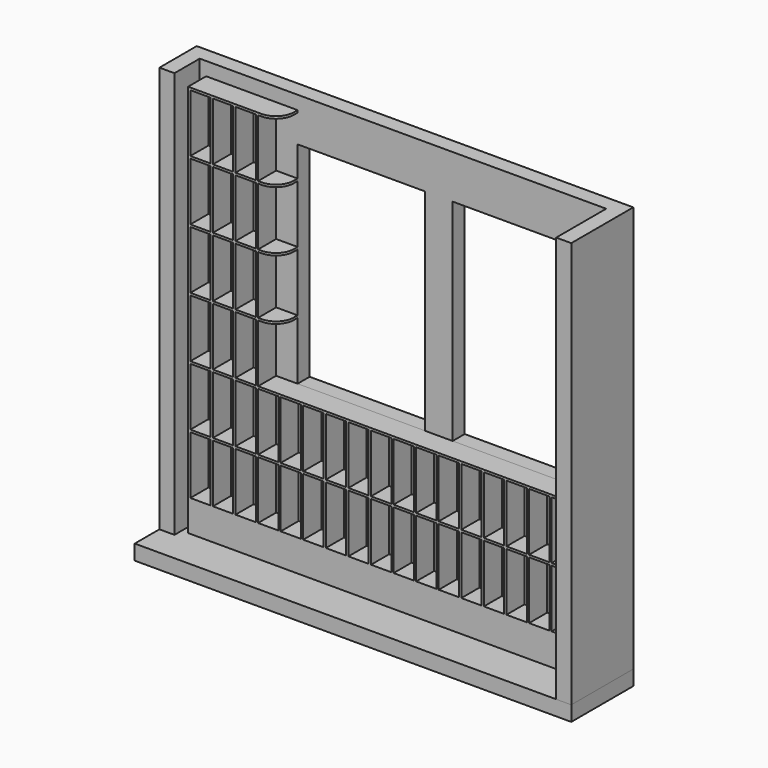
from build123d import *

# Parameters (mm, degrees)
F0_W      = 2700
F0_H      = 2700
F0_W_2    = 845
F0_H_2    = 1400
F1_DEPTH  = 100
F2_W      = 135
F2_H      = 385
F3_DEPTH  = 150
F4_R      = 120
F5_W      = 310
F5_H      = 2700
F6_DEPTH  = 100
F7_W      = 515
F7_H      = 2700
F8_DEPTH  = 100
F9_W      = 2535
F9_H      = 195
F10_DEPTH = 15
F11_W     = 2900
F11_H     = 515
F12_DEPTH = 100


with BuildPart() as f1:
    # F0 (on Front) → F1 (new body)
    with BuildSketch(Plane.XZ):
        Rectangle(F0_W, F0_H)
        with Locations((-277.5, 360)):
            Rectangle(F0_W_2, F0_H_2, mode=Mode.SUBTRACT)
        with Locations((752.5, 360)):
            Rectangle(F0_W_2, F0_H_2, mode=Mode.SUBTRACT)
    extrude(amount=-F1_DEPTH)

    # F5 (on face) → F6 (join)
    with BuildSketch(Plane(origin=(-1350, 0, 0), x_dir=(0, -1, 0), z_dir=(-1, 0, 0))):
        with Locations((55, 0)):
            Rectangle(F5_W, F5_H)
    extrude(amount=F6_DEPTH)

    # F7 (on face) → F8 (join)
    with BuildSketch(Plane.YZ.offset(1350)):
        with Locations((-157.5, 0)):
            Rectangle(F7_W, F7_H)
    extrude(amount=F8_DEPTH)


with BuildPart() as f3:
    # F2 (on Front) → F3 (new body)
    with BuildSketch(Plane.XZ):
        Polygon((-1307.5, 1260.553313), (-1307.5, -1350), (-1292.5, -1350), (-1292.5, -1155), (-1157.5, -1155), (-1157.5, -1350), (-1142.5, -1350), (-1142.5, -1155), (-1007.5, -1155), (-1007.5, -1350), (-992.5, -1350), (-992.5, -1155), (-857.5, -1155), (-857.5, -1350), (-842.5, -1350), (-842.5, -1155), (-707.5, -1155), (-707.5, -1350), (-692.5, -1350), (-692.5, -1155), (-557.5, -1155), (-557.5, -1350), (-542.5, -1350), (-542.5, -1155), (-407.5, -1155), (-407.5, -1350), (-392.5, -1350), (-392.5, -1155), (-257.5, -1155), (-257.5, -1350), (-242.5, -1350), (-242.5, -1155), (-107.5, -1155), (-107.5, -1350), (-92.5, -1350), (-92.5, -1155), (42.5, -1155), (42.5, -1350), (57.5, -1350), (57.5, -1155), (192.5, -1155), (192.5, -1350), (207.5, -1350), (207.5, -1155), (342.5, -1155), (342.5, -1350), (357.5, -1350), (357.5, -1155), (492.5, -1155), (492.5, -1350), (507.5, -1350), (507.5, -1155), (642.5, -1155), (642.5, -1350), (657.5, -1350), (657.5, -1155), (792.5, -1155), (792.5, -1350), (807.5, -1350), (807.5, -1155), (942.5, -1155), (942.5, -1350), (957.5, -1350), (957.5, -1155), (1092.5, -1155), (1092.5, -1350), (1107.5, -1350), (1107.5, -1155), (1242.5, -1155), (1242.5, -1350), (1257.5, -1350), (1257.5, -340), (1242.5, -340), (1107.5, -340), (1092.5, -340), (957.5, -340), (942.5, -340), (807.5, -340), (792.5, -340), (657.5, -340), (642.5, -340), (507.5, -340), (492.5, -340), (357.5, -340), (342.5, -340), (207.5, -340), (192.5, -340), (57.5, -340), (42.5, -340), (-92.5, -340), (-107.5, -340), (-242.5, -340), (-257.5, -340), (-392.5, -340), (-407.5, -340), (-542.5, -340), (-557.5, -340), (-692.5, -340), (-707.5, -340), (-842.5, -340), (-842.5, 45), (-700, 45), (-700, 60), (-842.5, 60), (-842.5, 445), (-700, 445), (-700, 460), (-842.5, 460), (-842.5, 845), (-700, 845), (-700, 860), (-842.5, 860), (-842.5, 1245), (-700, 1245), (-699.986338, 1259.999994), align=None)
        with Locations((-1225, -947.5)):
            Rectangle(F2_W, F2_H, mode=Mode.SUBTRACT)
        with Locations((-1075, -947.5)):
            Rectangle(F2_W, F2_H, mode=Mode.SUBTRACT)
        with Locations((-925, -947.5)):
            Rectangle(F2_W, F2_H, mode=Mode.SUBTRACT)
        with Locations((-775, -947.5)):
            Rectangle(F2_W, F2_H, mode=Mode.SUBTRACT)
        with Locations((-625, -947.5)):
            Rectangle(F2_W, F2_H, mode=Mode.SUBTRACT)
        with Locations((-475, -947.5)):
            Rectangle(F2_W, F2_H, mode=Mode.SUBTRACT)
        with Locations((-325, -947.5)):
            Rectangle(F2_W, F2_H, mode=Mode.SUBTRACT)
        with Locations((-175, -947.5)):
            Rectangle(F2_W, F2_H, mode=Mode.SUBTRACT)
        with Locations((-1225, -547.5)):
            Rectangle(F2_W, F2_H, mode=Mode.SUBTRACT)
        with Locations((-1075, -547.5)):
            Rectangle(F2_W, F2_H, mode=Mode.SUBTRACT)
        with Locations((-925, -547.5)):
            Rectangle(F2_W, F2_H, mode=Mode.SUBTRACT)
        with Locations((-775, -547.5)):
            Rectangle(F2_W, F2_H, mode=Mode.SUBTRACT)
        with Locations((-1225, -147.5)):
            Rectangle(F2_W, F2_H, mode=Mode.SUBTRACT)
        with Locations((-1075, -147.5)):
            Rectangle(F2_W, F2_H, mode=Mode.SUBTRACT)
        with Locations((-925, -147.5)):
            Rectangle(F2_W, F2_H, mode=Mode.SUBTRACT)
        with Locations((-625, -547.5)):
            Rectangle(F2_W, F2_H, mode=Mode.SUBTRACT)
        with Locations((-475, -547.5)):
            Rectangle(F2_W, F2_H, mode=Mode.SUBTRACT)
        with Locations((-325, -547.5)):
            Rectangle(F2_W, F2_H, mode=Mode.SUBTRACT)
        with Locations((-175, -547.5)):
            Rectangle(F2_W, F2_H, mode=Mode.SUBTRACT)
        with Locations((-25, -947.5)):
            Rectangle(F2_W, F2_H, mode=Mode.SUBTRACT)
        with Locations((125, -947.5)):
            Rectangle(F2_W, F2_H, mode=Mode.SUBTRACT)
        with Locations((275, -947.5)):
            Rectangle(F2_W, F2_H, mode=Mode.SUBTRACT)
        with Locations((425, -947.5)):
            Rectangle(F2_W, F2_H, mode=Mode.SUBTRACT)
        with Locations((575, -947.5)):
            Rectangle(F2_W, F2_H, mode=Mode.SUBTRACT)
        with Locations((725, -947.5)):
            Rectangle(F2_W, F2_H, mode=Mode.SUBTRACT)
        with Locations((875, -947.5)):
            Rectangle(F2_W, F2_H, mode=Mode.SUBTRACT)
        with Locations((1025, -947.5)):
            Rectangle(F2_W, F2_H, mode=Mode.SUBTRACT)
        with Locations((1175, -947.5)):
            Rectangle(F2_W, F2_H, mode=Mode.SUBTRACT)
        with Locations((-25, -547.5)):
            Rectangle(F2_W, F2_H, mode=Mode.SUBTRACT)
        with Locations((125, -547.5)):
            Rectangle(F2_W, F2_H, mode=Mode.SUBTRACT)
        with Locations((275, -547.5)):
            Rectangle(F2_W, F2_H, mode=Mode.SUBTRACT)
        with Locations((425, -547.5)):
            Rectangle(F2_W, F2_H, mode=Mode.SUBTRACT)
        with Locations((575, -547.5)):
            Rectangle(F2_W, F2_H, mode=Mode.SUBTRACT)
        with Locations((725, -547.5)):
            Rectangle(F2_W, F2_H, mode=Mode.SUBTRACT)
        with Locations((875, -547.5)):
            Rectangle(F2_W, F2_H, mode=Mode.SUBTRACT)
        with Locations((1025, -547.5)):
            Rectangle(F2_W, F2_H, mode=Mode.SUBTRACT)
        with Locations((1175, -547.5)):
            Rectangle(F2_W, F2_H, mode=Mode.SUBTRACT)
        with Locations((-1225, 252.5)):
            Rectangle(F2_W, F2_H, mode=Mode.SUBTRACT)
        with Locations((-1075, 252.5)):
            Rectangle(F2_W, F2_H, mode=Mode.SUBTRACT)
        with Locations((-925, 252.5)):
            Rectangle(F2_W, F2_H, mode=Mode.SUBTRACT)
        with Locations((-1225, 652.5)):
            Rectangle(F2_W, F2_H, mode=Mode.SUBTRACT)
        with Locations((-1075, 652.5)):
            Rectangle(F2_W, F2_H, mode=Mode.SUBTRACT)
        with Locations((-925, 652.5)):
            Rectangle(F2_W, F2_H, mode=Mode.SUBTRACT)
        with Locations((-1225, 1052.5)):
            Rectangle(F2_W, F2_H, mode=Mode.SUBTRACT)
        with Locations((-1075, 1052.5)):
            Rectangle(F2_W, F2_H, mode=Mode.SUBTRACT)
        with Locations((-925, 1052.5)):
            Rectangle(F2_W, F2_H, mode=Mode.SUBTRACT)
    extrude(amount=F3_DEPTH)

    # F4
    f4_edges = [f3.edges().sort_by_distance(p)[0] for p in [
        (-699.993169, -150, 1252.499997),
        (-700, -150, 852.5),
        (-700, -150, 452.5),
        (-700, -150, 52.5),
    ]]
    fillet(f4_edges, radius=F4_R)

    # F9 (on face) → F10 (join)
    with BuildSketch(Plane.XZ.offset(150)):
        with Locations((-25, -1252.5)):
            Rectangle(F9_W, F9_H)
    extrude(amount=-F10_DEPTH)


with BuildPart() as f12:
    # F11 (on face) → F12 (new body)
    with BuildSketch(Plane(origin=(0, 0, -1350), x_dir=(1, 0, 0), z_dir=(0, 0, -1))):
        with Locations((0, 157.5)):
            Rectangle(F11_W, F11_H)
    extrude(amount=F12_DEPTH)


solid = Compound([f1.part, f3.part, f12.part])
